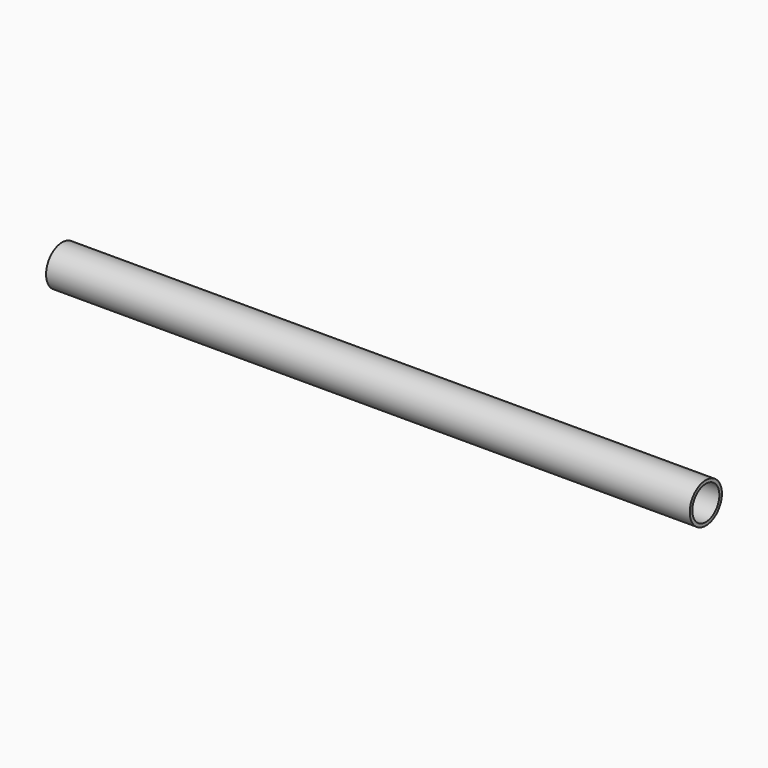
from build123d import *

# Parameters (mm, degrees)
F0_R     = 15.875
F1_DEPTH = 254
F2_T     = -2.54


with BuildPart() as f1:
    # F0 (on Right) → F1 (new body, symmetric)
    with BuildSketch(Plane.YZ):
        Circle(F0_R)
    extrude(amount=F1_DEPTH, both=True)

    # F2
    f2_openings = [f1.faces().sort_by_distance(p)[0] for p in [
        (254, 0, 0),
        (-254, 0, 0),
    ]]
    offset(amount=F2_T, openings=f2_openings)


solid = f1.part
